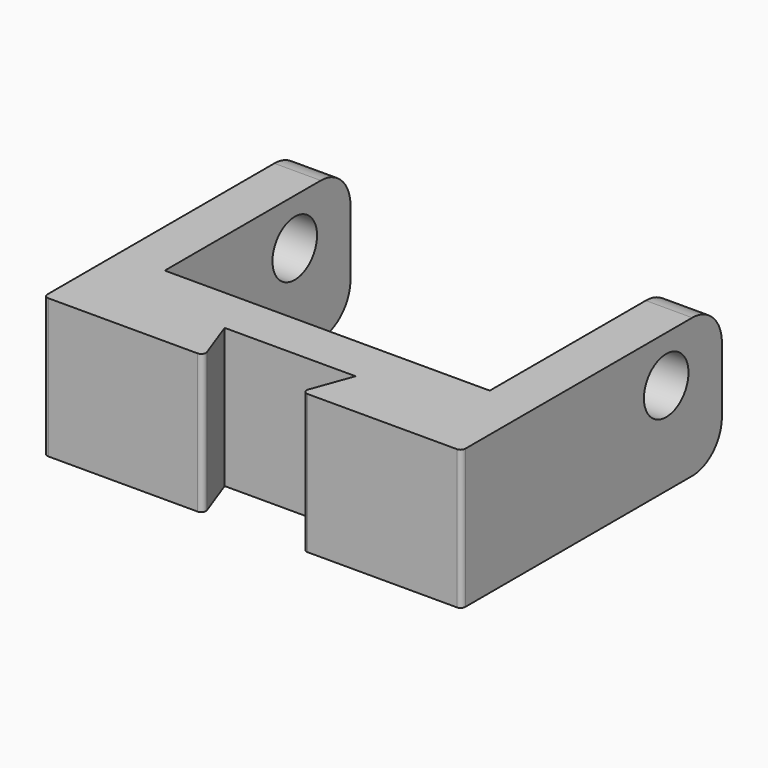
from build123d import *

# Parameters (mm, degrees)
F1_DEPTH      = 30
F2_R          = 6
F3_DEPTH      = 10
F3_DEPTH_BACK = 80
F4_R          = 8
F5_R          = 1


with BuildPart() as f1:
    # F0 (on Top) → F1 (new body)
    with BuildSketch(Plane.XY):
        Polygon((-14.1, -30), (-45, -30), (-45, -40.1), (-10.4239006339, -40.1), align=None)
        Polygon((45, -30), (14.1, -30), (10.4239006339, -40.1), (45, -40.1), align=None)
        Polygon((-35, 30), (-45, 30), (-45, -30), (-14.1, -30), (14.1, -30), (45, -30), (45, 30), (35, 30), (35, -20), (-35, -20), align=None)
    extrude(amount=F1_DEPTH)

    # F2 (on face) → F3 (cut, two sides)
    with BuildSketch(Plane(origin=(35, 0, 0), x_dir=(0, -1, 0), z_dir=(-1, 0, 0))) as f3_sk:
        with Locations((-15, 20)):
            Circle(F2_R)
    extrude(amount=-F3_DEPTH, mode=Mode.SUBTRACT)
    extrude(f3_sk.sketch, amount=F3_DEPTH_BACK, mode=Mode.SUBTRACT)

    # F4
    f4_edges = [f1.edges().sort_by_distance(p)[0] for p in [
        (40, 30, 30),
        (40, 30, 0),
        (-40, 30, 30),
        (-40, 30, 0),
    ]]
    fillet(f4_edges, radius=F4_R)

    # F5
    f5_edges = [f1.edges().sort_by_distance(p)[0] for p in [
        (-10.423901, -40.1, 15),
        (10.423901, -40.1, 15),
        (45, -40.1, 15),
        (-45, -40.1, 15),
    ]]
    fillet(f5_edges, radius=F5_R)


solid = f1.part
